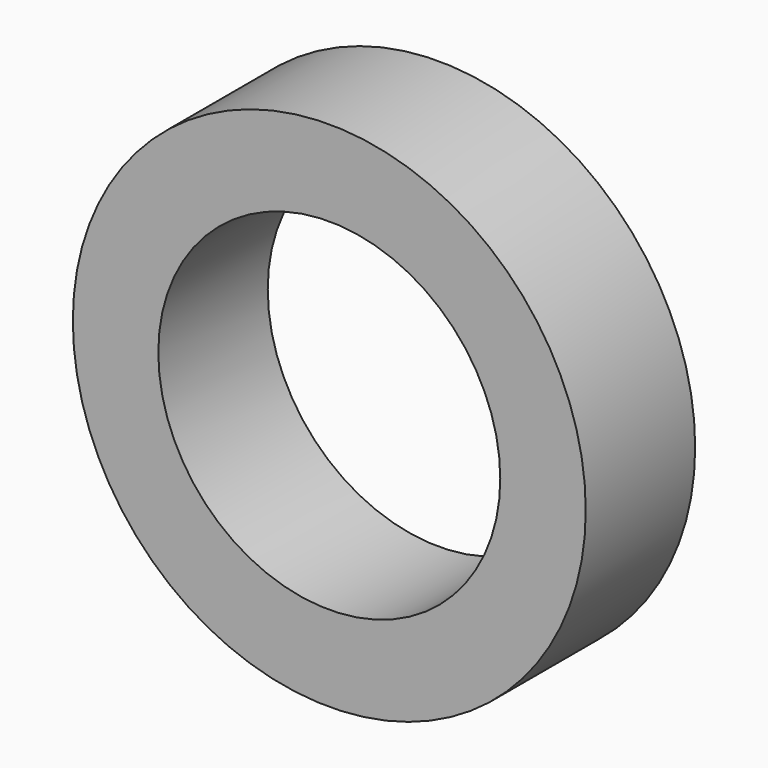
from build123d import *

# Parameters (mm, degrees)
CYLINDER416_R     = 5
CYLINDER416_DEPTH = 4
CYLINDER415_R     = 7.5
CYLINDER415_DEPTH = 4


with BuildPart() as cylinder:
    # Cylinder416 → Cylinder416 (new body)
    with BuildSketch(Plane(origin=(75, 69, 46), x_dir=(1, 0, 0), z_dir=(0, -1, 0))):
        Circle(CYLINDER416_R)
    extrude(amount=CYLINDER416_DEPTH)


with BuildPart() as cut004026018020025012002:
    # Cylinder415 → Cylinder415 (new body)
    with BuildSketch(Plane(origin=(75, 69, 46), x_dir=(1, 0, 0), z_dir=(0, -1, 0))):
        Circle(CYLINDER415_R)
    extrude(amount=CYLINDER415_DEPTH)

    # Cut004026018020025012002: cut Cylinder
    add(cylinder.part, mode=Mode.SUBTRACT)


solid = cut004026018020025012002.part
